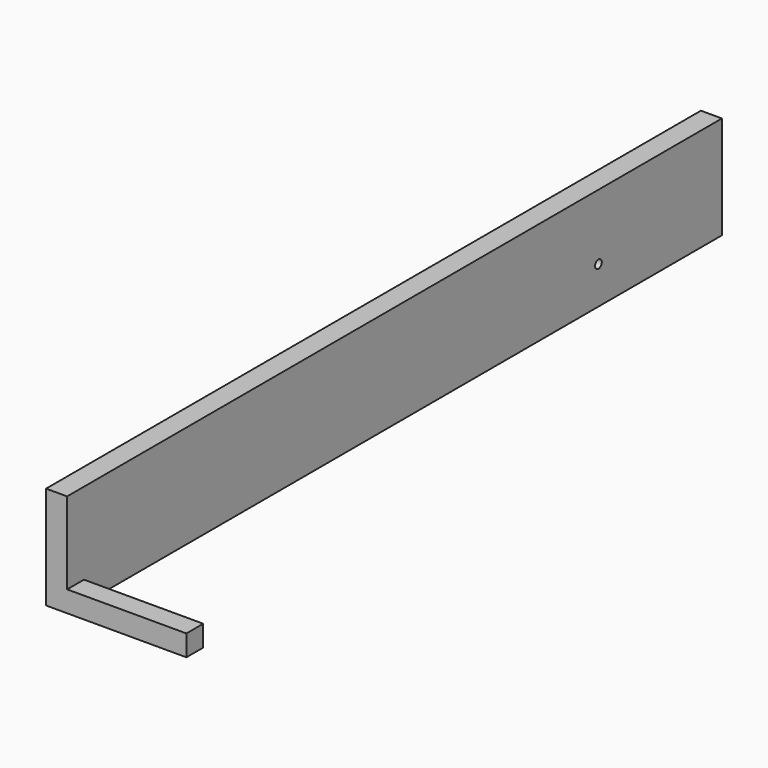
from build123d import *

# Parameters (mm, degrees)
F1_DEPTH = 1750
F0_W     = 255
F0_H     = 45
F2_DEPTH = 45
F3_R     = 9
F4_DEPTH = 300.001


with BuildPart() as f1:
    # F0 (on Front) → F1 (new body)
    with BuildSketch(Plane.XZ):
        Polygon((-300, 0), (-255, 0), (-255, 45), (-255, 220), (-300, 220), align=None)
    extrude(amount=-F1_DEPTH)

    # F0 (on Front) → F2 (join)
    with BuildSketch(Plane.XZ):
        with Locations((-127.5, 22.5)):
            Rectangle(F0_W, F0_H)
    extrude(amount=-F2_DEPTH)

    # F3 (on Right) → F4 (cut, through all)
    with BuildSketch(Plane.YZ):
        with Locations((1420, 80)):
            Circle(F3_R)
    extrude(amount=-F4_DEPTH, mode=Mode.SUBTRACT)


solid = f1.part
